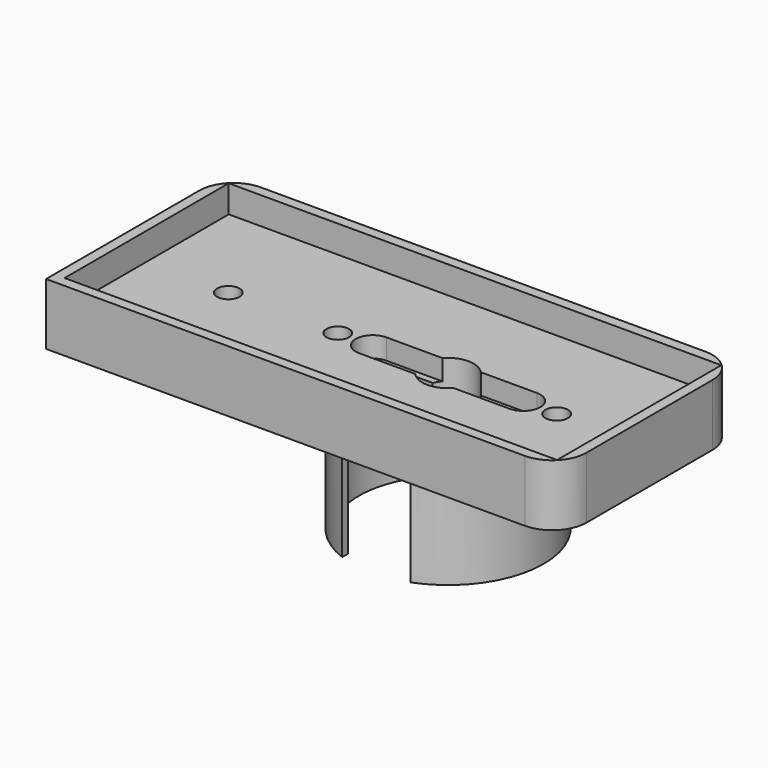
from build123d import *

# Parameters (mm, degrees)
F0_W      = 72
F0_H      = 30
F1_DEPTH  = 4
F3_DEPTH  = 5
F4_R      = 3.75
F5_DEPTH  = 9.001
F8_DEPTH  = 15
F10_DEPTH = 25
F12_DEPTH = 3
F13_R     = 1.65
F14_DEPTH = 3


with BuildPart() as f1:
    # F0 (on Top) → F1 (new body)
    with BuildSketch(Plane.XY):
        with BuildLine():
            ThreePointArc((37.445899, 13.116578), (35.981432, 16.652112), (32.445899, 18.116578))
            Line((32.445899, 18.116578), (-32.554101, 18.116578))
            ThreePointArc((-32.554101, 18.116578), (-36.089635, 16.652112), (-37.554101, 13.116578))
            Line((-37.554101, 13.116578), (-37.554101, -9.883422))
            Line((-37.554101, -9.883422), (-37.554101, -14.883422))
            Line((-37.554101, -14.883422), (-32.554101, -14.883422))
            Line((-32.554101, -14.883422), (32.445899, -14.883422))
            ThreePointArc((32.445899, -14.883422), (35.981432, -13.418956), (37.445899, -9.883422))
            Line((37.445899, -9.883422), (37.445899, 13.116578))
        make_face()
        with Locations((-0.054101, 1.616578)):
            Rectangle(F0_W, F0_H, mode=Mode.SUBTRACT)
    extrude(amount=F1_DEPTH)

    # F2 (on face) → F3 (join)
    with BuildSketch(Plane(origin=(0, 0, 0), x_dir=(1, 0, 0), z_dir=(0, 0, -1))):
        with BuildLine():
            Line((32.445899, 14.883422), (-37.554101, 14.883422))
            Line((-37.554101, 14.883422), (-37.554101, -13.116578))
            ThreePointArc((-37.554101, -13.116578), (-36.089635, -16.652112), (-32.554101, -18.116578))
            Line((-32.554101, -18.116578), (32.445899, -18.116578))
            ThreePointArc((32.445899, -18.116578), (35.981432, -16.652112), (37.445899, -13.116578))
            Line((37.445899, -13.116578), (37.445899, 9.883422))
            ThreePointArc((37.445899, 9.883422), (35.981432, 13.418956), (32.445899, 14.883422))
        make_face()
    extrude(amount=F3_DEPTH)

    # F4 (on face) → F5 (cut, through all)
    with BuildSketch(Plane(origin=(0, 0, -5), x_dir=(1, 0, 0), z_dir=(0, 0, -1))):
        with Locations((8, -1.616578)):
            Circle(F4_R)
    extrude(amount=-F5_DEPTH, mode=Mode.SUBTRACT)

    # F7 (on face) → F8 (join)
    with BuildSketch(Plane(origin=(0, 0, -5), x_dir=(1, 0, 0), z_dir=(0, 0, -1))):
        with BuildLine():
            ThreePointArc((2.992242, -13.613343), (-5, -1.616578), (2.992242, 10.380186))
            Line((2.992242, 10.380186), (2.992242, 11.45715))
            ThreePointArc((2.992242, 11.45715), (-6, -1.616578), (2.992242, -14.690306))
            Line((2.992242, -14.690306), (2.992242, -13.613343))
        make_face()
        with BuildLine():
            ThreePointArc((13.007758, -14.690306), (22, -1.616578), (13.007758, 11.45715))
            Line((13.007758, 11.45715), (13.007758, 10.380186))
            ThreePointArc((13.007758, 10.380186), (21, -1.616578), (13.007758, -13.613343))
            Line((13.007758, -13.613343), (13.007758, -14.690306))
        make_face()
    extrude(amount=F8_DEPTH)

    # F9 (on face) → F10 (cut)
    with BuildSketch(Plane.XY):
        with BuildLine():
            ThreePointArc((19, 0.116578), (20.06066, 0.555918), (20.5, 1.616578))
            ThreePointArc((20.5, 1.616578), (20.06066, 2.677238), (19, 3.116578))
            ThreePointArc((19, 3.116578), (17.5, 1.616578), (19, 0.116578))
        make_face()
        with BuildLine():
            ThreePointArc((19, 0.116578), (17.5, 1.616578), (19, 3.116578))
            Line((19, 3.116578), (-3, 3.116578))
            ThreePointArc((-3, 3.116578), (-1.93934, 2.677238), (-1.5, 1.616578))
            ThreePointArc((-1.5, 1.616578), (-1.93934, 0.555918), (-3, 0.116578))
            Line((-3, 0.116578), (19, 0.116578))
        make_face()
        with BuildLine():
            ThreePointArc((-1.5, 1.616578), (-1.93934, 2.677238), (-3, 3.116578))
            ThreePointArc((-3, 3.116578), (-4.5, 1.616578), (-3, 0.116578))
            ThreePointArc((-3, 0.116578), (-1.93934, 0.555918), (-1.5, 1.616578))
        make_face()
    extrude(amount=-F10_DEPTH, mode=Mode.SUBTRACT)

    # F11 (on face) → F12 (cut)
    with BuildSketch(Plane.XY):
        with BuildLine():
            ThreePointArc((-3, -0.883422), (-1.232233, -0.151189), (-0.5, 1.616578))
            ThreePointArc((-0.5, 1.616578), (-1.232233, 3.384345), (-3, 4.116578))
            ThreePointArc((-3, 4.116578), (-5.5, 1.616578), (-3, -0.883422))
        make_face()
        with BuildLine():
            ThreePointArc((-3, 4.116578), (-1.232233, 3.384345), (-0.5, 1.616578))
            ThreePointArc((-0.5, 1.616578), (-1.232233, -0.151189), (-3, -0.883422))
            Line((-3, -0.883422), (19, -0.883422))
            ThreePointArc((19, -0.883422), (16.5, 1.616578), (19, 4.116578))
            Line((19, 4.116578), (-3, 4.116578))
        make_face()
        with BuildLine():
            ThreePointArc((21.5, 1.616578), (20.767767, 3.384345), (19, 4.116578))
            ThreePointArc((19, 4.116578), (16.5, 1.616578), (19, -0.883422))
            ThreePointArc((19, -0.883422), (20.767767, -0.151189), (21.5, 1.616578))
        make_face()
    extrude(amount=-F12_DEPTH, mode=Mode.SUBTRACT)

    # F13 (on face) → F14 (cut)
    with BuildSketch(Plane.XY):
        with Locations((-24, 1.470634)):
            Circle(F13_R)
        with Locations((-8, 1.470634)):
            Circle(F13_R)
        with Locations((8, 1.470634)):
            Circle(F13_R)
        with Locations((24, 1.470634)):
            Circle(F13_R)
    extrude(amount=-F14_DEPTH, mode=Mode.SUBTRACT)


solid = f1.part
